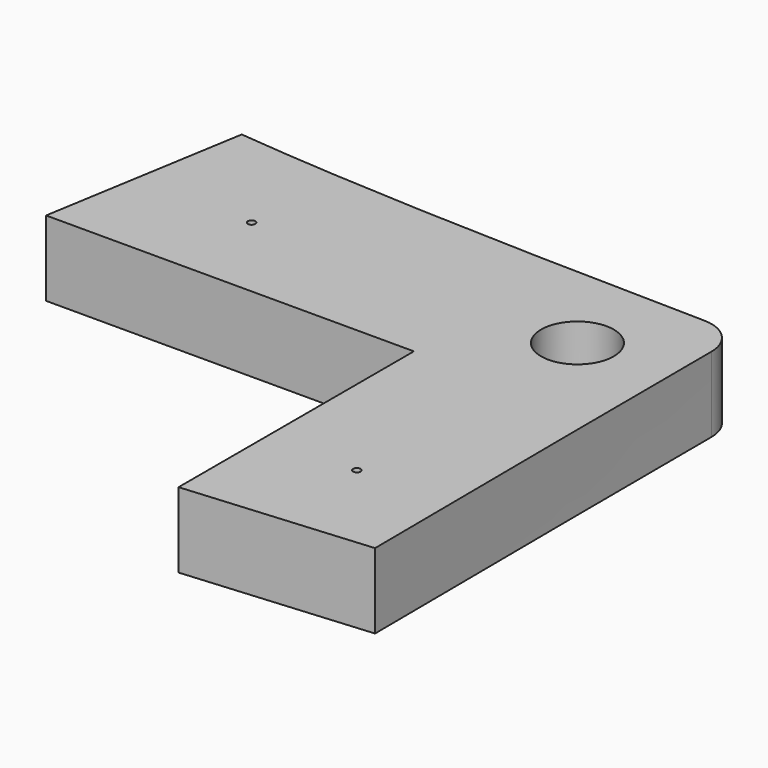
from build123d import *

# Parameters (mm, degrees)
SKETCH056_R     = 1.45
PAD015_DEPTH    = 3
SKETCH061_R     = 0.15
POCKET027_DEPTH = 23
FILLET013_R     = 1.5


with BuildPart() as part:
    # Sketch056 → Pad015 (new body)
    with BuildSketch(Plane.XY):
        with BuildLine():
            add(Edge.make_bspline(
                [(150.875, 88.9625), (142.177266, 89.087472), (135.460331, 89.269548), (130.29585, 89.7876)],
                knots=[0, 0, 0, 0, 1, 1, 1, 1], degree=3))
            Line((130.29585, 89.7876), (128.95, 81.7125))
            Line((128.95, 81.7125), (143.625, 81.7125))
            Line((143.625, 81.7125), (143.625, 69.975))
            Line((143.625, 69.975), (150.975266, 70.587522))
            add(Edge.make_bspline(
                [(150.875, 88.9625), (150.875, 82.6662), (150.975266, 70.587522)],
                knots=[0, 0, 0, 1, 1, 1], degree=2))
        make_face()
        with Locations((147.25, 85.3375)):
            Circle(SKETCH056_R, mode=Mode.SUBTRACT)
    extrude(amount=PAD015_DEPTH)

    # Sketch061 → Pocket027 (cut)
    with BuildSketch(Plane.XY):
        with Locations((134.25, 85.3375)):
            Circle(SKETCH061_R)
        with Locations((147.25, 74.3375)):
            Circle(SKETCH061_R)
    extrude(amount=POCKET027_DEPTH, mode=Mode.SUBTRACT)

    # Fillet013
    fillet013_edges = [part.edges().sort_by_distance(p)[0] for p in [
        (150.875, 88.9625, 1.5),
    ]]
    fillet(fillet013_edges, radius=FILLET013_R)


with BuildPart() as part_1:
    # Body014 placement: moved
    add(part.part.moved(Location((0, 0, -9))))


solid = part_1.part
